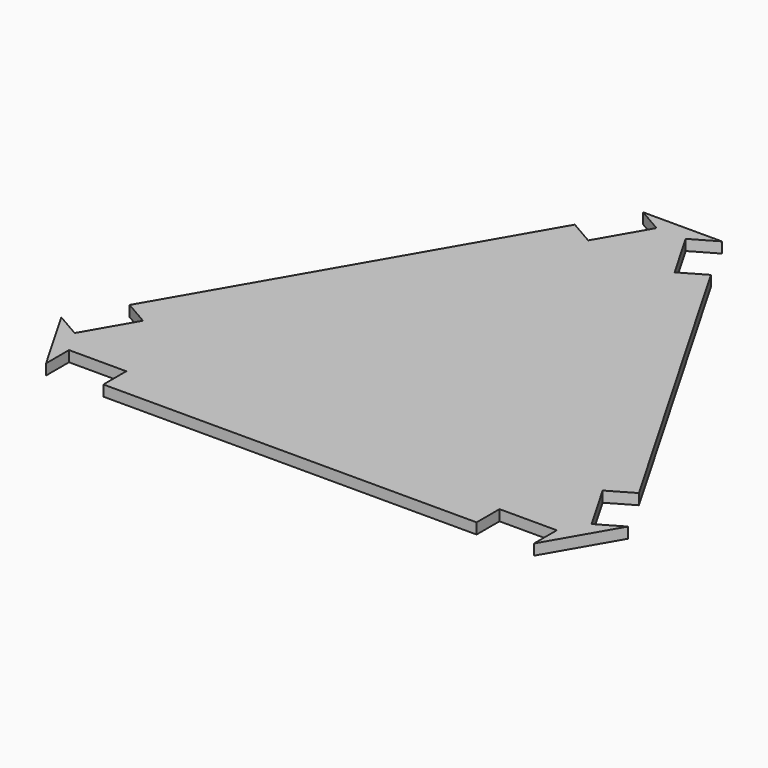
from build123d import *

# Parameters (mm, degrees)
F1_DEPTH = 3


with BuildPart() as f1:
    # F0 (on Top) → F1 (new body)
    with BuildSketch(Plane.XY):
        Polygon((-36.8060796608, 21.25), (0, 85), (-11, 85), (-4.0717967697, 81), (-12.0717967697, 67.1435935394), (-19, 71.1435935394), (-45.0560796608, 26.0131397208), align=None)
        Polygon((0, 0), (0, 85), (-36.8060796608, 21.25), align=None)
        Polygon((36.8060796608, 21.25), (0, 85), (0, 0), align=None)
        Polygon((11, 85), (0, 85), (36.8060796608, 21.25), (45.0560796608, 26.0131397208), (19, 71.1435935394), (12.0717967697, 67.1435935394), (4.0717967697, 81), align=None)
        Polygon((45.0560796608, 26.0131397208), (36.8060796608, 21.25), (73.6121593217, -42.5), (79.1121593217, -32.9737205584), (72.1839560914, -36.9737205584), (64.1839560914, -23.1173140978), (71.1121593217, -19.1173140978), align=None)
        Polygon((73.6121593217, -42.5), (36.8060796608, 21.25), (0, 0), align=None)
        Polygon((73.6121593217, -42.5), (0, 0), (-73.6121593217, -42.5), align=None)
        Polygon((0, 0), (-36.8060796608, 21.25), (-73.6121593217, -42.5), align=None)
        Polygon((-73.6121593217, -42.5), (-36.8060796608, 21.25), (-45.0560796608, 26.0131397208), (-71.1121593217, -19.1173140978), (-64.1839560914, -23.1173140978), (-72.1839560914, -36.9737205584), (-79.1121593217, -32.9737205584), align=None)
        Polygon((68.1121593217, -52.0262794416), (73.6121593217, -42.5), (-73.6121593217, -42.5), (-68.1121593217, -52.0262794416), (-68.1121593217, -44.0262794416), (-52.1121593217, -44.0262794416), (-52.1121593217, -52.0262794416), (52.1121593217, -52.0262794416), (52.1121593217, -44.0262794416), (68.1121593217, -44.0262794416), align=None)
    extrude(amount=F1_DEPTH)


solid = f1.part
